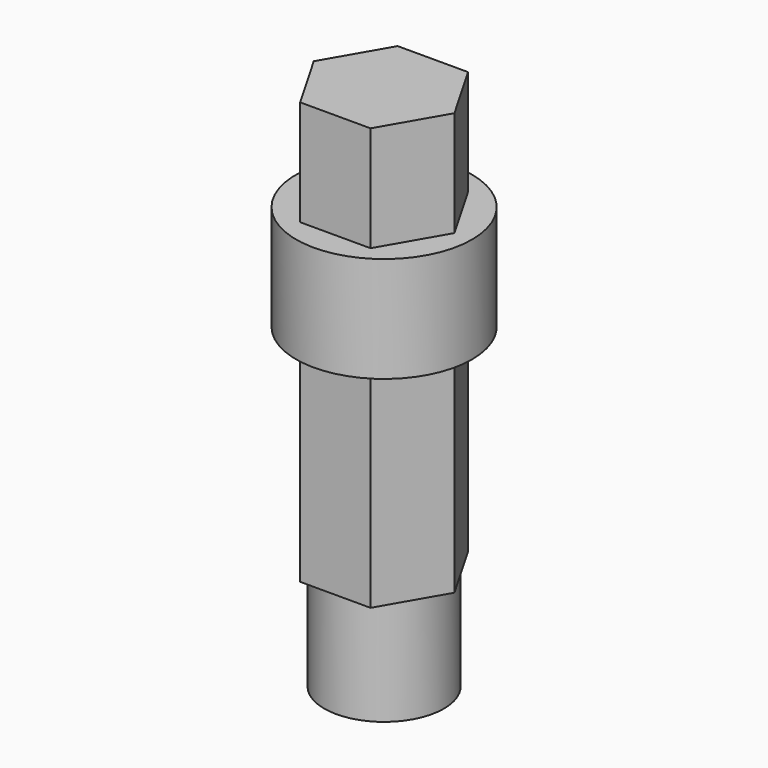
from build123d import *

# Parameters (mm, degrees)
F1_DEPTH = 30
F2_R     = 12.5
F3_DEPTH = 15
F4_DEPTH = 30
F5_R     = 8.5
F6_DEPTH = 15


with BuildPart() as f1:
    # F0 (on Top) → F1 (new body)
    with BuildSketch(Plane.XY):
        Polygon((-5, 8.6602540378), (-10, 0), (-5, -8.6602540378), (5, -8.6602540378), (10, 0), (5, 8.6602540378), align=None)
    extrude(amount=F1_DEPTH)

    # F2 (on face) → F3 (join)
    with BuildSketch(Plane.XY.offset(30)):
        Circle(F2_R)
        Polygon((-10, 0), (-5, 8.6602540378), (5, 8.6602540378), (10, 0), (5, -8.6602540378), (-5, -8.6602540378), align=None, mode=Mode.SUBTRACT)
    extrude(amount=F3_DEPTH)

    # F4 (add): a face of the model
    f4_faces = [f1.faces().sort_by_distance(p)[0] for p in [
        (0, 0, 30),
    ]]
    extrude(f4_faces, amount=F4_DEPTH)

    # F5 (on face) → F6 (join)
    with BuildSketch(Plane(origin=(0, 0, 0), x_dir=(1, 0, 0), z_dir=(0, 0, -1))):
        Circle(F5_R)
    extrude(amount=F6_DEPTH)


solid = f1.part
